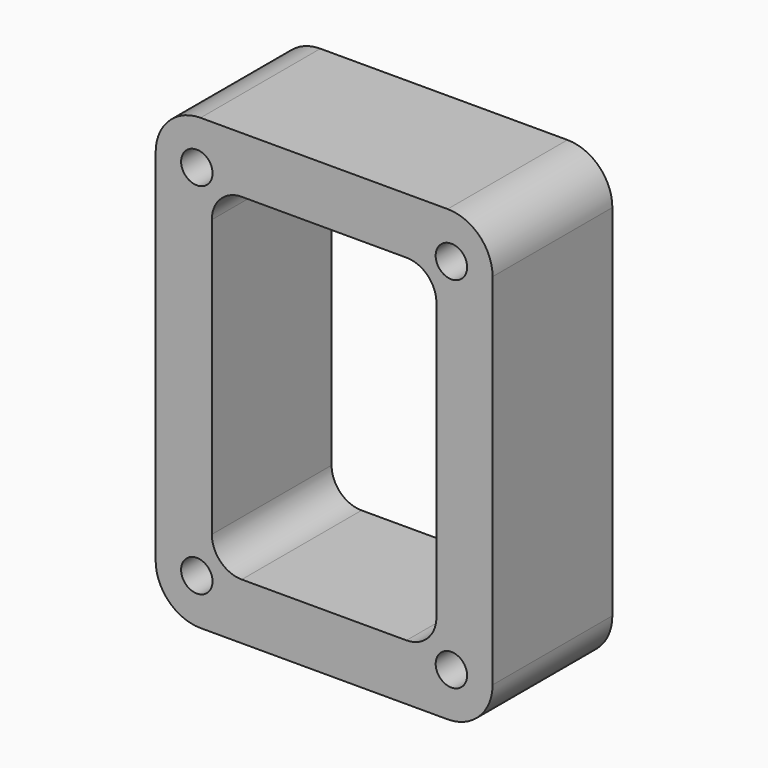
from build123d import *

# Parameters (mm, degrees)
F0_R     = 2.667
F1_DEPTH = 25.4


with BuildPart() as f1:
    # F0 (on Front) → F1 (new body)
    with BuildSketch(Plane.XZ):
        with BuildLine():
            Line((20.955, 38.1), (-20.955, 38.1))
            ThreePointArc((-20.955, 38.1), (-26.343154, 35.868154), (-28.575, 30.48))
            Line((-28.575, 30.48), (-28.575, -30.48))
            ThreePointArc((-28.575, -30.48), (-26.343154, -35.868154), (-20.955, -38.1))
            Line((-20.955, -38.1), (20.955, -38.1))
            ThreePointArc((20.955, -38.1), (26.343154, -35.868154), (28.575, -30.48))
            Line((28.575, -30.48), (28.575, 30.48))
            ThreePointArc((28.575, 30.48), (26.343154, 35.868154), (20.955, 38.1))
        make_face()
        with Locations((-21.59, -30.48)):
            Circle(F0_R, mode=Mode.SUBTRACT)
        with Locations((21.59, -30.48)):
            Circle(F0_R, mode=Mode.SUBTRACT)
        with Locations((-21.59, 30.48)):
            Circle(F0_R, mode=Mode.SUBTRACT)
        with BuildLine():
            ThreePointArc((-19.05, 23.495), (-17.562102, 27.087102), (-13.97, 28.575))
            Line((-13.97, 28.575), (13.97, 28.575))
            ThreePointArc((13.97, 28.575), (17.562102, 27.087102), (19.05, 23.495))
            Line((19.05, 23.495), (19.05, -23.495))
            ThreePointArc((19.05, -23.495), (17.562102, -27.087102), (13.97, -28.575))
            Line((13.97, -28.575), (-13.97, -28.575))
            ThreePointArc((-13.97, -28.575), (-17.562102, -27.087102), (-19.05, -23.495))
            Line((-19.05, -23.495), (-19.05, 23.495))
        make_face(mode=Mode.SUBTRACT)
        with Locations((21.59, 30.48)):
            Circle(F0_R, mode=Mode.SUBTRACT)
    extrude(amount=F1_DEPTH)


solid = f1.part
